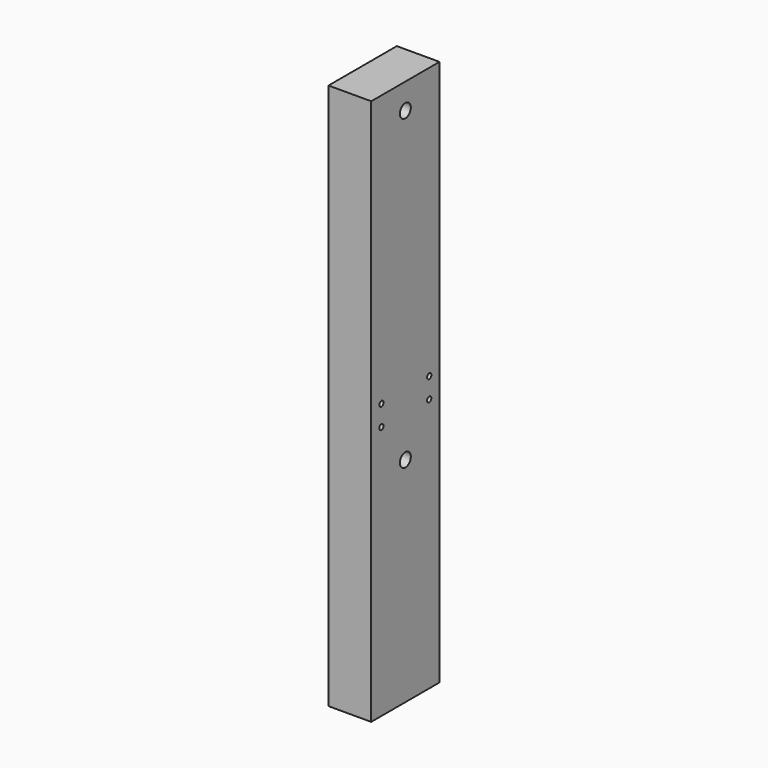
from build123d import *

# Parameters (mm, degrees)
F0_W     = 50
F0_H     = 320
F0_R     = 1.55
F0_R_2   = 4
F1_DEPTH = 25


with BuildPart() as f1:
    # F0 (on Right) → F1 (new body)
    with BuildSketch(Plane.YZ):
        with Locations((25, 160)):
            Rectangle(F0_W, F0_H)
        with Locations((7.5, 149)):
            Circle(F0_R, mode=Mode.SUBTRACT)
        with Locations((25, 125)):
            Circle(F0_R_2, mode=Mode.SUBTRACT)
        with Locations((42.5, 149)):
            Circle(F0_R, mode=Mode.SUBTRACT)
        with Locations((7.5, 161)):
            Circle(F0_R, mode=Mode.SUBTRACT)
        with Locations((42.5, 161)):
            Circle(F0_R, mode=Mode.SUBTRACT)
        with Locations((25, 305)):
            Circle(F0_R_2, mode=Mode.SUBTRACT)
    extrude(amount=F1_DEPTH)


solid = f1.part
